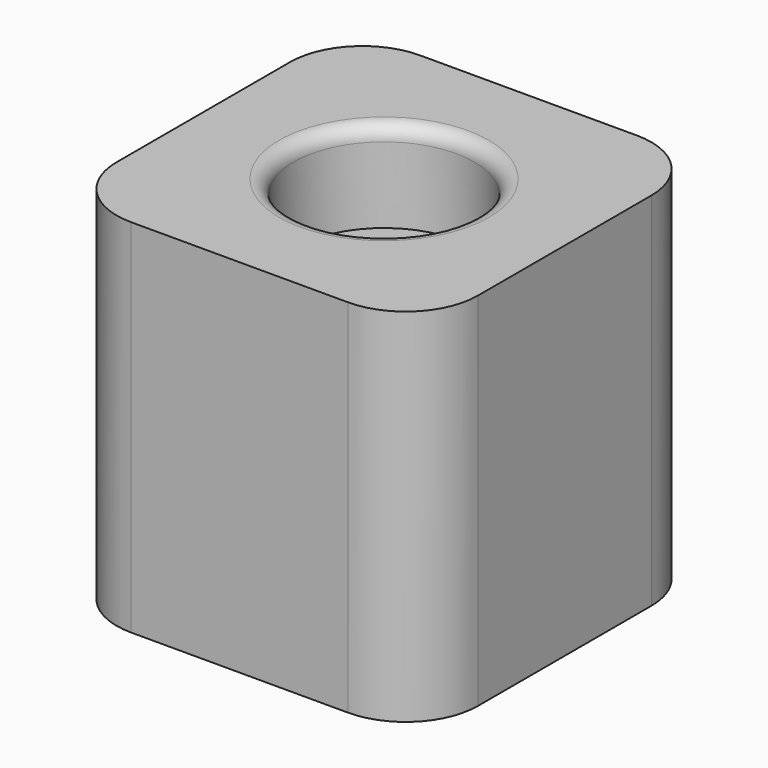
from build123d import *

# Parameters (mm, degrees)
SKETCH_W     = 50
SKETCH_H     = 50
PAD_DEPTH    = 50
SKETCH001_R  = 12.5
POCKET_DEPTH = 12.5
FILLET_R     = 10
FILLET001_R  = 2


with BuildPart() as part:
    # Sketch → Pad (new body)
    with BuildSketch(Plane.XY):
        Rectangle(SKETCH_W, SKETCH_H)
    extrude(amount=PAD_DEPTH)

    # Sketch001 (on Face6 of Pad) → Pocket (cut)
    with BuildSketch(Plane.XY.offset(50)):
        Circle(SKETCH001_R)
    extrude(amount=-POCKET_DEPTH, mode=Mode.SUBTRACT)

    # Fillet
    fillet_edges = [part.edges().sort_by_distance(p)[0] for p in [
        (-25, -25, 25),
        (-25, 25, 25),
        (25, -25, 25),
        (25, 25, 25),
    ]]
    fillet(fillet_edges, radius=FILLET_R)

    # Fillet001
    fillet001_edges = [part.edges().sort_by_distance(p)[0] for p in [
        (-12.5, 0, 50),
    ]]
    fillet(fillet001_edges, radius=FILLET001_R)


solid = part.part
